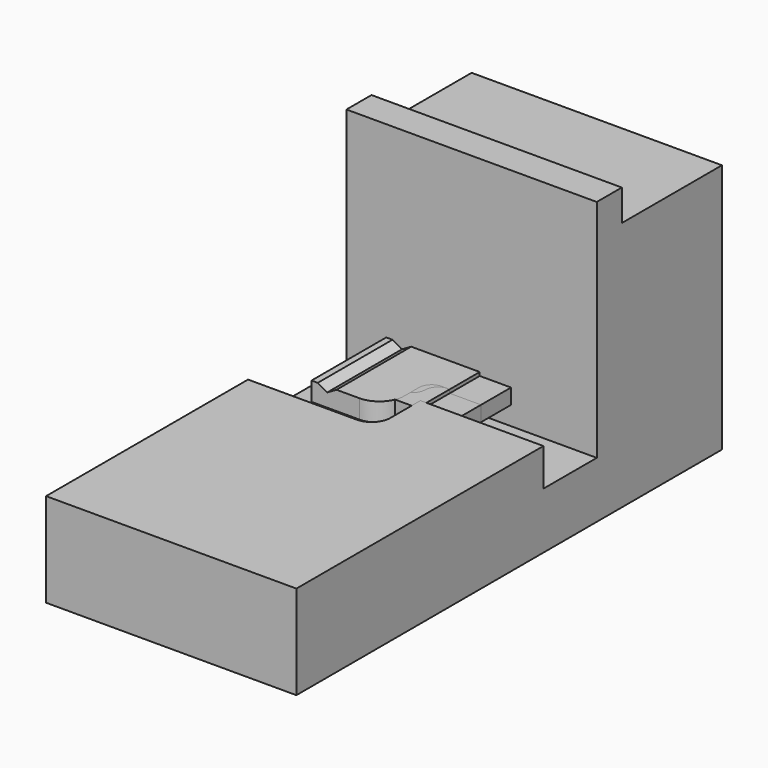
from build123d import *

# Parameters (mm, degrees)
SKETCH011_W             = 19.95
SKETCH011_H             = 24.84
PAD002_DEPTH            = 3
POCKET008_DEPTH         = 12.421
POCKET008_DEPTH_BACK    = -12.421
SKETCH013_W             = 5
SKETCH013_H             = 0.56
POCKET009_DEPTH         = 12.421
POCKET009_DEPTH_BACK    = -12.421
BODY002_PLACEMENT_ANGLE = 180
PAD004_DEPTH            = 3
POCKET012_DEPTH         = 14.921
POCKET012_DEPTH_BACK    = -14.921
SKETCH019_W             = 5
SKETCH019_H             = 0.56
POCKET013_DEPTH         = 14.921
POCKET013_DEPTH_BACK    = -14.921
BODY004_PLACEMENT_ANGLE = 180
PAD005_DEPTH            = 3
POCKET014_DEPTH         = 14.921
POCKET014_DEPTH_BACK    = -14.921
SKETCH022_W             = 5
SKETCH022_H             = 0.56
POCKET015_DEPTH         = 14.921
POCKET015_DEPTH_BACK    = -14.921
BODY005_PLACEMENT_ANGLE = 180
PAD008_DEPTH            = 26
PAD008_DEPTH_BACK       = 14
POCKET019_DEPTH         = 10
POCKET020_DEPTH         = 6
BODY007_PLACEMENT_ANGLE = 90


with BuildPart() as coarse_z_slider:
    # Sketch011 (on XY_Plane011 of Origin030) → Pad002 (new body)
    with BuildSketch(Plane.XY):
        with Locations((2.325, 0)):
            Rectangle(SKETCH011_W, SKETCH011_H)
    extrude(amount=PAD002_DEPTH)

    # Sketch012 (on XZ_Plane011 of Origin030) → Pocket008 (cut, two sides)
    with BuildSketch(Plane.XZ) as pocket008_sk:
        Polygon((-5.15, 0.866025), (-6.65, 0), (-3.65, 0), align=None)
    extrude(amount=-POCKET008_DEPTH, mode=Mode.SUBTRACT)
    extrude(pocket008_sk.sketch, amount=-POCKET008_DEPTH_BACK, mode=Mode.SUBTRACT)

    # Sketch013 (on XZ_Plane011 of Origin030) → Pocket009 (cut, two sides)
    with BuildSketch(Plane.XZ) as pocket009_sk:
        with Locations((9.8, 0.28)):
            Rectangle(SKETCH013_W, SKETCH013_H)
    extrude(amount=-POCKET009_DEPTH, mode=Mode.SUBTRACT)
    extrude(pocket009_sk.sketch, amount=-POCKET009_DEPTH_BACK, mode=Mode.SUBTRACT)


with BuildPart() as coarse_z_slider_1:
    # Body002 placement: moved
    add(coarse_z_slider.part.rotate(Axis((0, 0, 0), (1, 0, 0)), BODY002_PLACEMENT_ANGLE))


with BuildPart() as coarse_y_slider:
    # Sketch017 (on XY_Plane011 of Origin034) → Pad004 (new body)
    with BuildSketch(Plane.XY):
        with BuildLine():
            Line((-7.65, -14.92), (-7.65, 14.92))
            Line((-7.65, 14.92), (-2.65, 14.92))
            Line((-2.65, 14.92), (-2.65, 12))
            ThreePointArc((-2.65, 12), (-2.064214, 10.585786), (-0.65, 10))
            Line((-0.65, 10), (3, 10))
            ThreePointArc((5, 8), (4.414214, 9.414214), (3, 10))
            ThreePointArc((5, 8), (5.585786, 6.585786), (7, 6))
            Line((12.3, 6), (7, 6))
            Line((12.3, 6), (12.3, -6))
            Line((12.3, -6), (7, -6))
            ThreePointArc((7, -6), (5.585786, -6.585786), (5, -8))
            ThreePointArc((3, -10), (4.414214, -9.414214), (5, -8))
            Line((-0.65, -10), (3, -10))
            ThreePointArc((-0.65, -10), (-2.064214, -10.585786), (-2.65, -12))
            Line((-2.65, -14.92), (-2.65, -12))
            Line((-7.65, -14.92), (-2.65, -14.92))
        make_face()
    extrude(amount=PAD004_DEPTH)

    # Sketch018 (on XZ_Plane011 of Origin034) → Pocket012 (cut, two sides)
    with BuildSketch(Plane.XZ) as pocket012_sk:
        Polygon((-5.15, 0.866025), (-6.65, 0), (-3.65, 0), align=None)
    extrude(amount=-POCKET012_DEPTH, mode=Mode.SUBTRACT)
    extrude(pocket012_sk.sketch, amount=-POCKET012_DEPTH_BACK, mode=Mode.SUBTRACT)

    # Sketch019 (on XZ_Plane011 of Origin034) → Pocket013 (cut, two sides)
    with BuildSketch(Plane.XZ) as pocket013_sk:
        with Locations((9.8, 0.28)):
            Rectangle(SKETCH019_W, SKETCH019_H)
    extrude(amount=-POCKET013_DEPTH, mode=Mode.SUBTRACT)
    extrude(pocket013_sk.sketch, amount=-POCKET013_DEPTH_BACK, mode=Mode.SUBTRACT)


with BuildPart() as coarse_y_slider_1:
    # Body004 placement: moved
    add(coarse_y_slider.part.rotate(Axis((0, 0, 0), (1, 0, 0)), BODY004_PLACEMENT_ANGLE))


with BuildPart() as coarse_x_slider:
    # Sketch020 (on XY_Plane011 of Origin036) → Pad005 (new body)
    with BuildSketch(Plane.XY):
        with BuildLine():
            Line((-7.65, 14.92), (0, 14.92))
            ThreePointArc((4, 10.92), (2.828427, 13.748427), (0, 14.92))
            Line((4, 10.92), (4, 8))
            ThreePointArc((4, 8), (4.585786, 6.585786), (6, 6))
            Line((12.3, 6), (6, 6))
            Line((12.3, 6), (12.3, -6))
            ThreePointArc((8.3, -10), (11.128427, -8.828427), (12.3, -6))
            Line((-0.65, -10), (8.3, -10))
            ThreePointArc((-0.65, -10), (-2.064214, -10.585786), (-2.65, -12))
            Line((-2.65, -14.92), (-2.65, -12))
            Line((-7.65, -14.92), (-2.65, -14.92))
            Line((-7.65, -14.92), (-7.65, -10.15))
            ThreePointArc((-7.65, -10.15), (-8.235786, -8.735786), (-9.65, -8.15))
            ThreePointArc((-12.65, -5.15), (-11.77132, -7.27132), (-9.65, -8.15))
            ThreePointArc((-9.65, -2.15), (-11.77132, -3.02868), (-12.65, -5.15))
            ThreePointArc((-9.65, -2.15), (-8.235786, -1.564214), (-7.65, -0.15))
            Line((-7.65, 14.92), (-7.65, -0.15))
        make_face()
    extrude(amount=PAD005_DEPTH)

    # Sketch021 (on XZ_Plane011 of Origin036) → Pocket014 (cut, two sides)
    with BuildSketch(Plane.XZ) as pocket014_sk:
        Polygon((-5.15, 0.866025), (-6.65, 0), (-3.65, 0), align=None)
    extrude(amount=-POCKET014_DEPTH, mode=Mode.SUBTRACT)
    extrude(pocket014_sk.sketch, amount=-POCKET014_DEPTH_BACK, mode=Mode.SUBTRACT)

    # Sketch022 (on XZ_Plane011 of Origin036) → Pocket015 (cut, two sides)
    with BuildSketch(Plane.XZ) as pocket015_sk:
        with Locations((9.8, 0.28)):
            Rectangle(SKETCH022_W, SKETCH022_H)
    extrude(amount=-POCKET015_DEPTH, mode=Mode.SUBTRACT)
    extrude(pocket015_sk.sketch, amount=-POCKET015_DEPTH_BACK, mode=Mode.SUBTRACT)


with BuildPart() as coarse_x_slider_1:
    # Body005 placement: moved
    add(coarse_x_slider.part.rotate(Axis((0, 0, 0), (1, 0, 0)), BODY005_PLACEMENT_ANGLE))


with BuildPart() as stm_base:
    # Sketch029 (on YZ_Plane020 of Origin040) → Pad008 (new body, two sides)
    with BuildSketch(Plane.YZ) as pad008_sk:
        Polygon((0, 60), (-15, 60), (-15, -25), (25, -25), (25, -5), (30, -5), (30, 0), (-6, 0), (-6, 10.66), (0, 10.66), align=None)
    extrude(amount=PAD008_DEPTH)
    extrude(pad008_sk.sketch, amount=-PAD008_DEPTH_BACK)

    # Sketch030 (on XZ_Plane020 of Origin040) → Pocket019 (cut)
    with BuildSketch(Plane.XZ):
        with BuildLine():
            ThreePointArc((6.35, 16.66), (5.47132, 18.78132), (3.35, 19.66))
            Line((3.35, 19.66), (-20, 19.66))
            Line((-20, 10.66), (-20, 19.66))
            Line((3.35, 10.66), (-20, 10.66))
            ThreePointArc((3.35, 10.66), (5.47132, 11.53868), (6.35, 13.66))
            Line((6.35, 16.66), (6.35, 13.66))
        make_face()
    extrude(amount=POCKET019_DEPTH, mode=Mode.SUBTRACT)

    # Sketch031 (on XZ_Plane020 of Origin040) → Pocket020 (cut)
    with BuildSketch(Plane.XZ):
        with BuildLine():
            ThreePointArc((6.35, 16.66), (5.47132, 18.78132), (3.35, 19.66))
            Line((3.35, 19.66), (-20, 19.66))
            Line((-20, 10.66), (-20, 19.66))
            Line((6.35, 10.66), (-20, 10.66))
            Line((6.35, 16.66), (6.35, 10.66))
        make_face()
    extrude(amount=POCKET020_DEPTH, mode=Mode.SUBTRACT)


with BuildPart() as stm_base_1:
    # Body007 placement: moved
    add(stm_base.part.rotate(Axis((0, 0, 0), (1, 0, 0)), BODY007_PLACEMENT_ANGLE))


solid = Compound([coarse_z_slider_1.part, coarse_y_slider_1.part, coarse_x_slider_1.part, stm_base_1.part])
